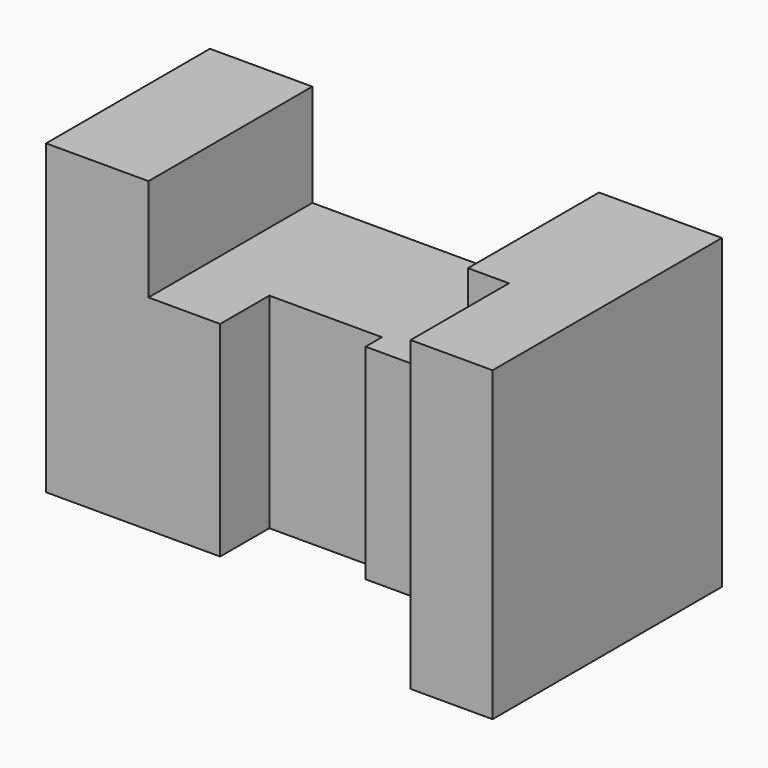
from build123d import *

# Parameters (mm, degrees)
F0_W     = 125
F0_H     = 75
F1_DEPTH = 70
F2_W     = 42.5
F2_H     = 20
F3_DEPTH = 75.001
F4_W     = 27.5
F4_H     = 15
F4_H_2   = 20
F5_DEPTH = 75.001
F6_W     = 35
F6_H     = 30
F7_DEPTH = 75.001
F8_W     = 52.5
F8_H     = 25
F8_W_2   = 17.5
F9_DEPTH = 50.001


with BuildPart() as f1:
    # F0 (on Front) → F1 (new body)
    with BuildSketch(Plane.XZ):
        with Locations((62.5, 37.5)):
            Rectangle(F0_W, F0_H)
    extrude(amount=F1_DEPTH)

    # F2 (on face) → F3 (cut, through all)
    with BuildSketch(Plane.XY.offset(75)):
        with Locations((21.25, -60)):
            Rectangle(F2_W, F2_H)
    extrude(amount=-F3_DEPTH, mode=Mode.SUBTRACT)

    # F4 (on face) → F5 (cut, through all)
    with BuildSketch(Plane.XY.offset(75)):
        with Locations((56.25, -42.5)):
            Rectangle(F4_W, F4_H)
        with Locations((56.25, -60)):
            Rectangle(F4_W, F4_H_2)
    extrude(amount=-F5_DEPTH, mode=Mode.SUBTRACT)

    # F6 (on face) → F7 (cut, through all)
    with BuildSketch(Plane.XY.offset(75)):
        with Locations((87.5, -55)):
            Rectangle(F6_W, F6_H)
    extrude(amount=-F7_DEPTH, mode=Mode.SUBTRACT)

    # F8 (on face) → F9 (cut, through all)
    with BuildSketch(Plane.XZ.offset(50)):
        with Locations((68.75, 62.5)):
            Rectangle(F8_W, F8_H)
        with Locations((33.75, 62.5)):
            Rectangle(F8_W_2, F8_H)
    extrude(amount=-F9_DEPTH, mode=Mode.SUBTRACT)


solid = f1.part
